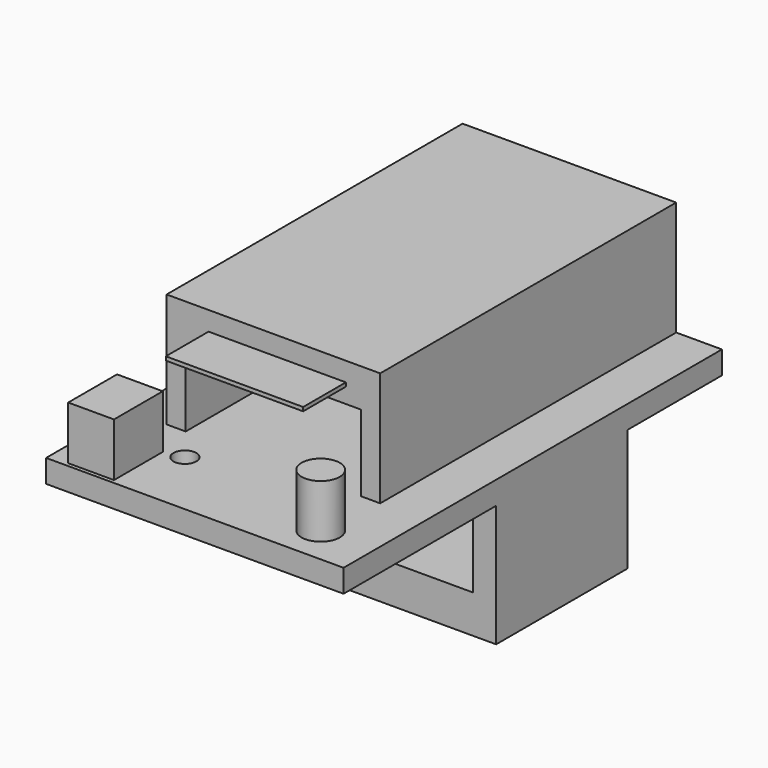
from build123d import *

# Parameters (mm, degrees)
SKETCH_W        = 39
SKETCH_H        = 62
PAD_DEPTH       = 18
SKETCH001_W     = 39
SKETCH001_H     = 21.5
PAD001_DEPTH    = 16
SKETCH002_R     = 3
PAD002_DEPTH    = 13
SKETCH003_W     = 36
SKETCH003_H     = 11
POCKET_DEPTH    = 37.001
POCKET001_DEPTH = 15
SKETCH005_W     = 18
SKETCH005_H     = 0.5
PAD003_DEPTH    = 7
SKETCH006_R     = 2.5
SKETCH006_W     = 6
SKETCH006_H     = 8
PAD004_DEPTH    = 7
SKETCH015_R     = 1.5
POCKET005_DEPTH = 5
SKETCH016_W     = 23
SKETCH016_H     = 10
POCKET006_DEPTH = 49


with BuildPart() as part:
    # Sketch → Pad (new body)
    with BuildSketch(Plane.XY):
        Rectangle(SKETCH_W, SKETCH_H)
    extrude(amount=PAD_DEPTH)

    # Sketch001 (on Face5 of Pad) → Pad001 (join)
    with BuildSketch(Plane(origin=(0, 0, 0), x_dir=(1, 0, 0), z_dir=(0, 0, -1))):
        with Locations((0, -4.75)):
            Rectangle(SKETCH001_W, SKETCH001_H)
    extrude(amount=PAD001_DEPTH)

    # Sketch002 (on Face8 of Pad001) → Pad002 (join)
    with BuildSketch(Plane(origin=(-19.5, 0, 0), x_dir=(0, -1, 0), z_dir=(-1, 0, 0))):
        with Locations((1, -15)):
            Circle(SKETCH002_R)
    extrude(amount=PAD002_DEPTH)

    # Sketch003 (on Face11 of Pad002) → Pocket (cut, through all)
    with BuildSketch(Plane.XZ.offset(6)):
        with Locations((-1.5, -5.5)):
            Rectangle(SKETCH003_W, SKETCH003_H)
    extrude(amount=-POCKET_DEPTH, mode=Mode.SUBTRACT)

    # Sketch004 (on Face6 of Pocket) → Pocket001 (cut)
    with BuildSketch(Plane.XY.offset(18)):
        Polygon((13.5, -17.5), (-14.5, -17.5), (-14.5, 31), (-19.5, 31), (-19.5, -31), (19.5, -31), (19.5, 31), (13.5, 31), align=None)
    extrude(amount=-POCKET001_DEPTH, mode=Mode.SUBTRACT)

    # Sketch005 (on Face15 of Pocket001) → Pad003 (join)
    with BuildSketch(Plane.XZ.offset(17.5)):
        with Locations((0, 15.25)):
            Rectangle(SKETCH005_W, SKETCH005_H)
    extrude(amount=PAD003_DEPTH)

    # Sketch006 (on Face5 of Pad003) → Pad004 (join)
    with BuildSketch(Plane.XY.offset(3)):
        with Locations((12.5, -26)):
            Circle(SKETCH006_R)
        with Locations((-14, -26.5)):
            Rectangle(SKETCH006_W, SKETCH006_H)
    extrude(amount=PAD004_DEPTH)

    # Sketch015 (on Face2 of Pad004) → Pocket005 (cut)
    with BuildSketch(Plane(origin=(0, 0, 0), x_dir=(1, 0, 0), z_dir=(0, 0, -1))):
        with Locations((-8.5, 22)):
            Circle(SKETCH015_R)
        with Locations((8.5, 22)):
            Circle(SKETCH015_R)
        with Locations((-7.5, -23)):
            Circle(SKETCH015_R)
        with Locations((6, -23)):
            Circle(SKETCH015_R)
    extrude(amount=-POCKET005_DEPTH, mode=Mode.SUBTRACT)

    # Sketch016 (on Face1 of Pocket005) → Pocket006 (cut)
    with BuildSketch(Plane(origin=(0, 31, 0), x_dir=(-1, 0, 0), z_dir=(0, 1, 0))):
        with Locations((0.5, 8)):
            Rectangle(SKETCH016_W, SKETCH016_H)
    extrude(amount=-POCKET006_DEPTH, mode=Mode.SUBTRACT)


solid = part.part
